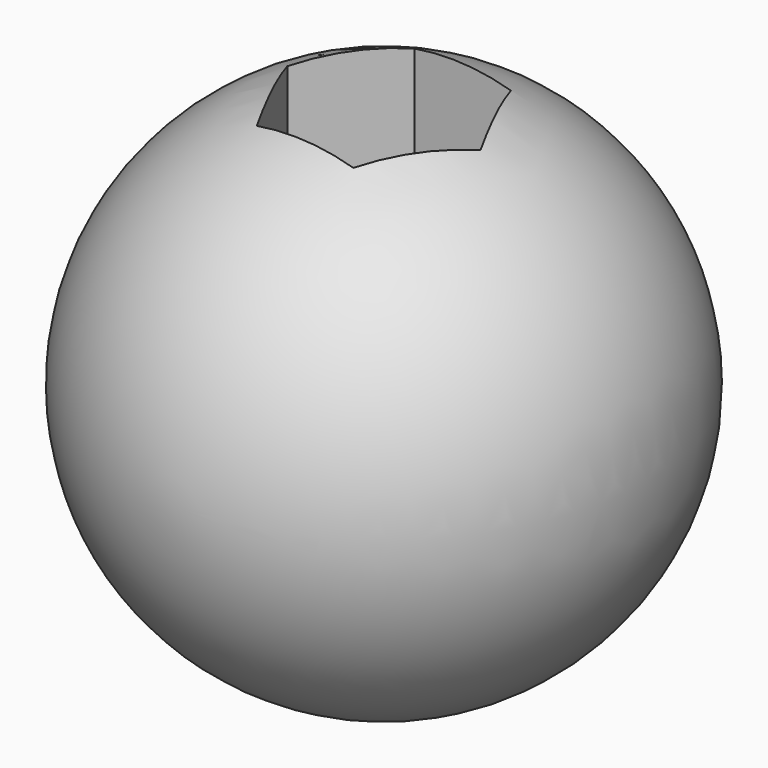
from build123d import *

# Parameters (mm, degrees)
F4_DEPTH = 22
F5_R     = 3
F6_DEPTH = 35.001


with BuildPart() as f1:
    # F0 (on Top) → F1 (revolve)
    with BuildSketch(Plane.XY):
        with BuildLine():
            ThreePointArc((0, -15), (15, 0), (0, 15))
            Line((0, 15), (0, -15))
        make_face()
    revolve(axis=Axis((0, 0, 0), (0, -1, 0)))

    # F3 (on offset) → F4 (cut)
    with BuildSketch(Plane.XY.offset(20)):
        Polygon((2.52286, -5.321201), (5.869725, -0.475739), (3.346865, 4.845461), (-2.52286, 5.321201), (-5.869725, 0.475739), (-3.346865, -4.845461), align=None)
    extrude(amount=-F4_DEPTH, mode=Mode.SUBTRACT)

    # F5 (on offset) → F6 (cut, through all)
    with BuildSketch(Plane.XY.offset(20)):
        Circle(F5_R)
    extrude(amount=-F6_DEPTH, mode=Mode.SUBTRACT)


solid = f1.part
